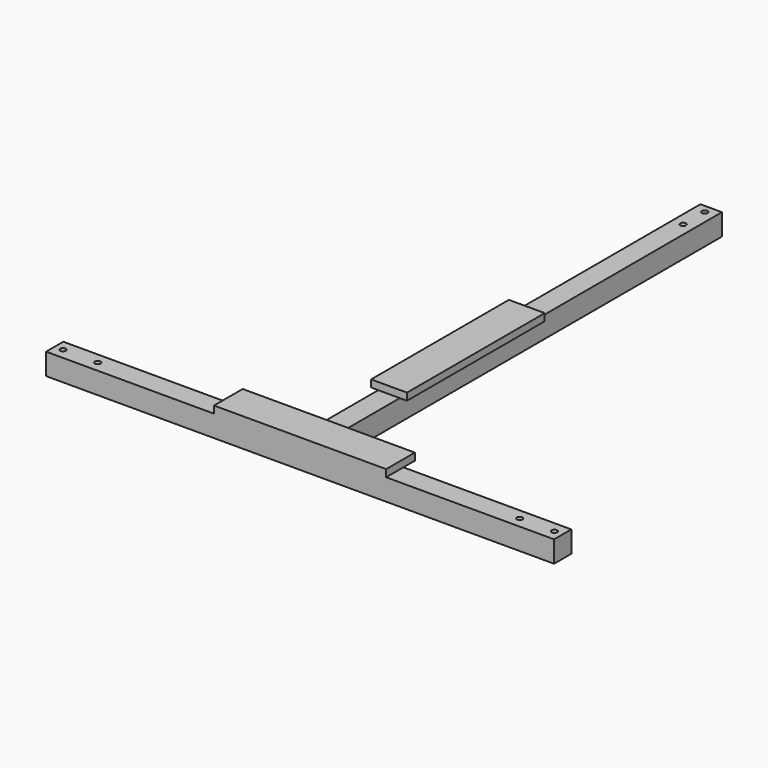
from build123d import *

# Parameters (mm, degrees)
F1_DEPTH = 19.05
F2_W     = 152.4
F2_H     = 31.75
F2_W_2   = 31.75
F2_H_2   = 152.4
F3_DEPTH = 6.35
F4_D     = 5


with BuildPart() as f1:
    # F0 (on Top) → F1 (new body)
    with BuildSketch(Plane.XY):
        Polygon((-9.525, -155.575), (-224.8118673418, -155.575), (-224.8118673418, -174.625), (224.8118673418, -174.625), (224.8118673418, -155.575), (9.525, -155.575), (9.525, 280.162), (-9.525, 280.162), align=None)
    extrude(amount=F1_DEPTH)

    # F2 (on face) → F3 (join)
    with BuildSketch(Plane.XY.offset(19.05)):
        with Locations((0, -158.75)):
            Rectangle(F2_W, F2_H)
        Rectangle(F2_W_2, F2_H_2)
    extrude(amount=F3_DEPTH)

    # F4 (through all)
    with Locations(Plane(origin=(0, 0, 0), x_dir=(1, 0, 0), z_dir=(0, 0, -1))):
        with Locations((186.7118673418, 165.1), (0, -249.2375), (-186.7118673418, 165.1), (-217.4817061272, 165.1), (217.4817061272, 165.1), (0, -273.05)):
            Hole(F4_D / 2)


solid = f1.part
